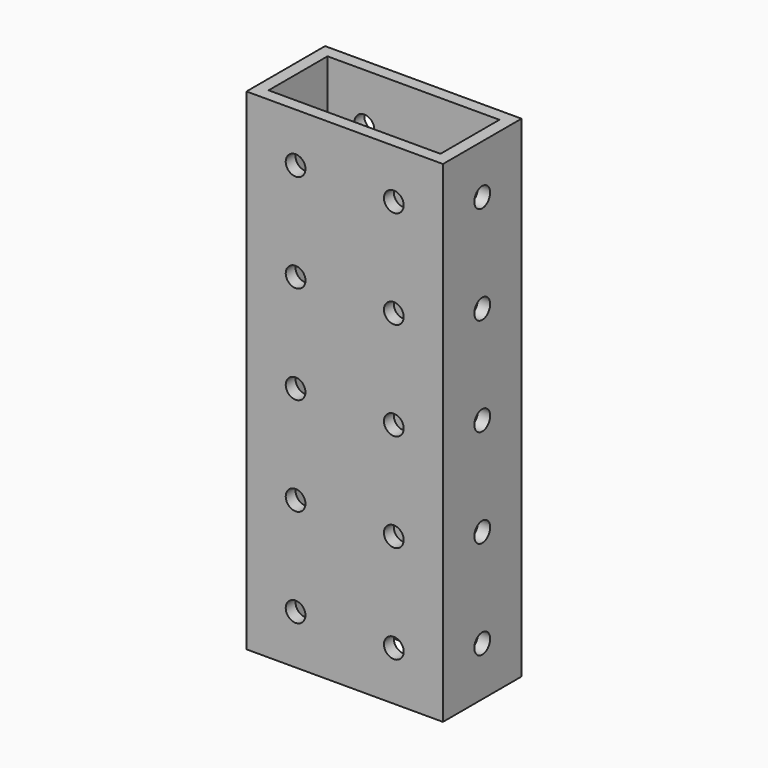
from build123d import *

# Parameters (mm, degrees)
F0_W     = 50.8
F0_H     = 25.4
F1_DEPTH = 127
F2_W     = 44.45
F2_H     = 19.05
F3_DEPTH = 127
F5_D     = 5.1054
F7_D     = 5.1054
F9_D     = 5.1054


with BuildPart() as f1:
    # F0 (on Top) → F1 (new body)
    with BuildSketch(Plane.XY):
        with Locations((6.3479, -6.781069)):
            Rectangle(F0_W, F0_H)
    extrude(amount=F1_DEPTH)

    # F2 (on face) → F3 (cut)
    with BuildSketch(Plane.XY.offset(127)):
        with Locations((6.3479, -6.781069)):
            Rectangle(F2_W, F2_H)
    extrude(amount=-F3_DEPTH, mode=Mode.SUBTRACT)

    # F5 (through all)
    with Locations(Plane.YZ):
        with Locations((-6.781069, 12.7)):
            Hole(F5_D / 2)

    # F7 (through all)
    with Locations(Plane.YZ.offset(31.7479)):
        with Locations((-6.781069, 88.9), (-6.781069, 63.5), (-6.781069, 114.3), (-6.781069, 38.1), (-6.781069, 12.7)):
            Hole(F7_D / 2)

    # F9 (through all)
    with Locations(Plane.XZ.offset(19.481069)):
        with Locations((-6.3521, 114.3), (-6.3521, 88.9), (-6.3521, 63.5), (-6.3521, 38.1), (-6.3521, 12.7), (19.0479, 63.5), (19.0479, 38.1), (19.0479, 88.9), (19.0479, 114.3), (19.0479, 12.7)):
            Hole(F9_D / 2)


solid = f1.part
